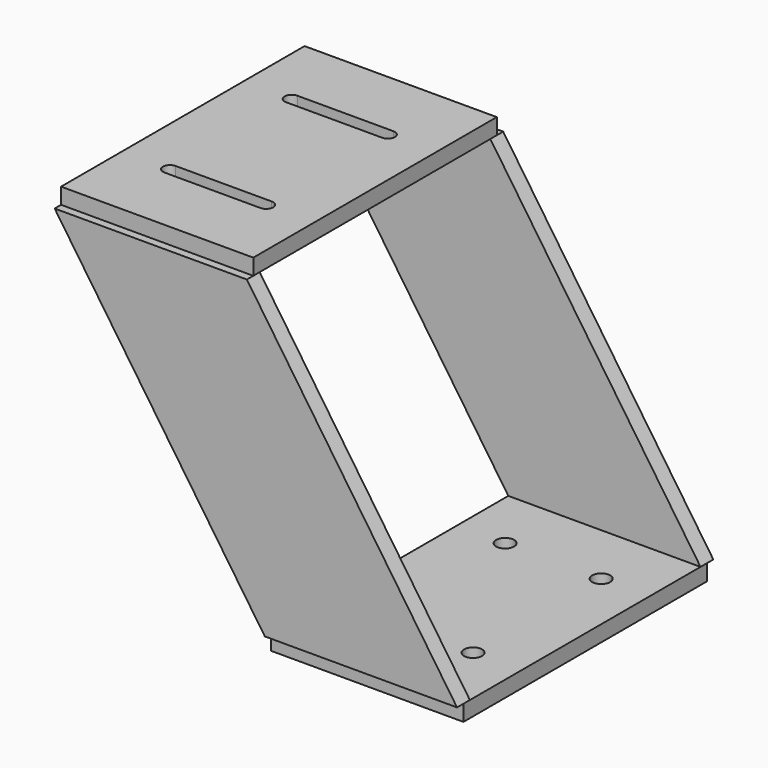
from build123d import *

# Parameters (mm, degrees)
F0_W      = 152.4
F0_H      = 241.3
F1_DEPTH  = 12.7
F3_D      = 14.2875
F5_W      = 152.4
F5_H      = 241.3
F6_DEPTH  = 12.7
F8_DEPTH  = 269.876
F10_DEPTH = 6.35


with BuildPart() as f1:
    # F0 (on Top) → F1 (new body)
    with BuildSketch(Plane.XY):
        Rectangle(F0_W, F0_H)
    extrude(amount=F1_DEPTH)

    # F3 (through all)
    with Locations(Plane.XY.offset(12.7)):
        with Locations((-38.1, 63.5), (38.1, 63.5), (-38.1, -63.5), (38.1, -63.5)):
            Hole(F3_D / 2)


with BuildPart() as f6:
    # F5 (on offset) → F6 (new body)
    with BuildSketch(Plane(origin=(0, 0, 269.875), x_dir=(1, 0, 0), z_dir=(0, 0, -1))):
        with Locations((-166.624, 0)):
            Rectangle(F5_W, F5_H)
    extrude(amount=F6_DEPTH)

    # F7 (on face) → F8 (cut, through all)
    with BuildSketch(Plane.XY.offset(269.875)):
        with BuildLine():
            ThreePointArc((-204.724, 65.913), (-210.312, 60.325), (-204.724, 54.737))
            Line((-204.724, 54.737), (-128.524, 54.737))
            ThreePointArc((-128.524, 54.737), (-122.936, 60.325), (-128.524, 65.913))
            Line((-128.524, 65.913), (-204.724, 65.913))
        make_face()
        with BuildLine():
            Line((-128.524, -54.737), (-204.724, -54.737))
            ThreePointArc((-204.724, -54.737), (-210.312, -60.325), (-204.724, -65.913))
            Line((-204.724, -65.913), (-128.524, -65.913))
            ThreePointArc((-128.524, -65.913), (-122.936, -60.325), (-128.524, -54.737))
        make_face()
    extrude(amount=-F8_DEPTH, mode=Mode.SUBTRACT)


with BuildPart() as f10:
    # F9 (on face) → F10 (new body, symmetric)
    with BuildSketch(Plane.XZ.offset(120.65)):
        Polygon((-90.424, 257.175), (-242.824, 257.175), (-76.2, 12.7), (76.2, 12.7), align=None)
    extrude(amount=F10_DEPTH, both=True)


with BuildPart() as f11_1:
    # F11: instance of F10
    add(f10.part.mirror(Plane.XZ))


solid = Compound([f1.part, f6.part, f10.part, f11_1.part])
